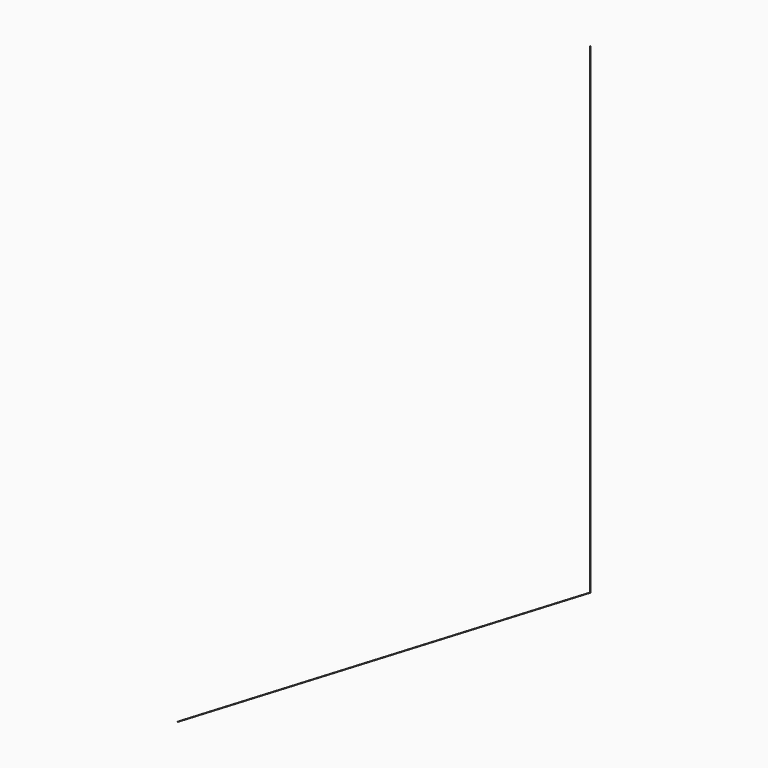
from build123d import *

# Parameters (mm, degrees)
F0_R     = 2.5
F1_DEPTH = 8630
F3_ANGLE = 121
F6_R     = 2.5
F7_DEPTH = 0.005


with BuildPart() as f1:
    # F0 (on Top) → F1 (new body)
    with BuildSketch(Plane.XY):
        Circle(F0_R)
    extrude(amount=F1_DEPTH)


with BuildPart() as f3_1:
    # F3: copy of F1
    add(f1.part.rotate(Axis((0, -7.9439654946, 0), (0, -1, 0)), F3_ANGLE))


with BuildPart() as f1_1:
    add(f1.part)

    add(f3_1.part)  # F7 merges F3_1
    # F6 (on line) → F7 (join, symmetric)
    with BuildSketch(Plane(origin=(0, 0, 0), x_dir=(0.8703556959, 0, -0.4924235601), z_dir=(-0.4924235601, 0, -0.8703556959))):
        Circle(F6_R)
    extrude(amount=F7_DEPTH, both=True)


solid = f1_1.part
